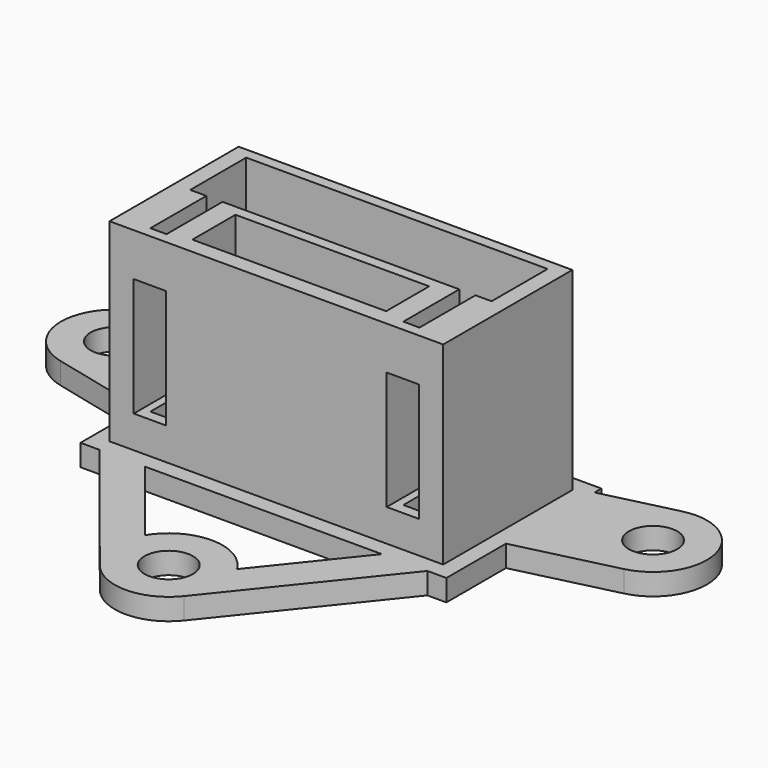
from build123d import *

# Parameters (mm, degrees)
PAD132_DEPTH    = 20
SKETCH277_W     = 18
SKETCH277_H     = 5
POCKET115_DEPTH = 20
SKETCH278_W     = 34
SKETCH278_H     = 18
PAD133_DEPTH    = 2
SKETCH279_W     = 61
SKETCH279_H     = 49.5
SKETCH279_W_2   = 31
SKETCH279_H_2   = 15
POCKET116_DEPTH = 18
SKETCH280_R     = 2.25
POCKET117_DEPTH = 5
SKETCH281_W     = 3
SKETCH281_H     = 11
POCKET118_DEPTH = 8


with BuildPart() as part:
    # Sketch276 → Pad132 (new body)
    with BuildSketch(Plane.XY):
        with BuildLine():
            Line((-16, 7.96043), (16, 7.96043))
            Line((16, 7.96043), (23.820487, 9.858884))
            ThreePointArc((26.179513, 0.141116), (29.858884, 6.179513), (23.820487, 9.858884))
            Line((16, -2.33), (26.179513, 0.141116))
            Line((16, -2.33), (16, -8.03957))
            Line((16, -8.03957), (3.900743, -23.127972))
            ThreePointArc((-3.900743, -23.127972), (0, -25), (3.900743, -23.127972))
            Line((-16, -8.03957), (-3.900743, -23.127972))
            Line((-16, -8.03957), (-16, -2.33))
            Line((-16, -2.33), (-26.179513, 0.141116))
            ThreePointArc((-23.820487, 9.858884), (-29.858884, 6.179513), (-26.179513, 0.141116))
            Line((-16, 7.96043), (-23.820487, 9.858884))
        make_face()
        Polygon((-14, 6.5), (-14, 0), (-12.5, 0), (-12.5, -6.5), (-11, -6.5), (-11, 0), (11, 0), (11, -6.5), (12.5, -6.5), (12.5, 0), (14, 0), (14, 6.5), align=None, mode=Mode.SUBTRACT)
        with BuildLine():
            ThreePointArc((4.26793, -17.39524), (0, -15), (-4.26793, -17.39524))
            Line((-11, -9), (-4.26793, -17.39524))
            Line((-11, -9), (11, -9))
            Line((11, -9), (4.26793, -17.39524))
        make_face(mode=Mode.SUBTRACT)
    extrude(amount=PAD132_DEPTH)

    # Sketch277 (on Face29 of Pad132) → Pocket115 (cut)
    with BuildSketch(Plane(origin=(0, 0, 0), x_dir=(1, 0, 0), z_dir=(0, 0, -1))):
        with Locations((0, 3.5)):
            Rectangle(SKETCH277_W, SKETCH277_H)
    extrude(amount=-POCKET115_DEPTH, mode=Mode.SUBTRACT)

    # Sketch278 (on Face4 of Pocket115) → Pad133 (join)
    with BuildSketch(Plane(origin=(0, 0, 0), x_dir=(1, 0, 0), z_dir=(0, 0, -1))):
        Rectangle(SKETCH278_W, SKETCH278_H)
    extrude(amount=-PAD133_DEPTH)

    # Sketch279 (on Face32 of Pad133) → Pocket116 (cut, symmetric)
    with BuildSketch(Plane.XY.offset(20)):
        with Locations((0, -4.75)):
            Rectangle(SKETCH279_W, SKETCH279_H)
        Rectangle(SKETCH279_W_2, SKETCH279_H_2, mode=Mode.SUBTRACT)
    extrude(amount=POCKET116_DEPTH, both=True, mode=Mode.SUBTRACT)

    # Sketch280 → Pocket117 (cut)
    with BuildSketch(Plane.XY):
        with Locations((0, -20)):
            Circle(SKETCH280_R)
        with Locations((25, 5)):
            Circle(SKETCH280_R)
        with Locations((-25, 5)):
            Circle(SKETCH280_R)
    extrude(amount=POCKET117_DEPTH, mode=Mode.SUBTRACT)

    # Sketch281 (on Face37 of Pocket117) → Pocket118 (cut)
    with BuildSketch(Plane.XZ.offset(7.5)):
        with Locations((-11.75, 10.5)):
            Rectangle(SKETCH281_W, SKETCH281_H)
        with Locations((11.75, 10.5)):
            Rectangle(SKETCH281_W, SKETCH281_H)
    extrude(amount=-POCKET118_DEPTH, mode=Mode.SUBTRACT)


with BuildPart() as part_1:
    # Body030 placement: moved
    add(part.part.moved(Location((0, 0, -33))))


solid = part_1.part
